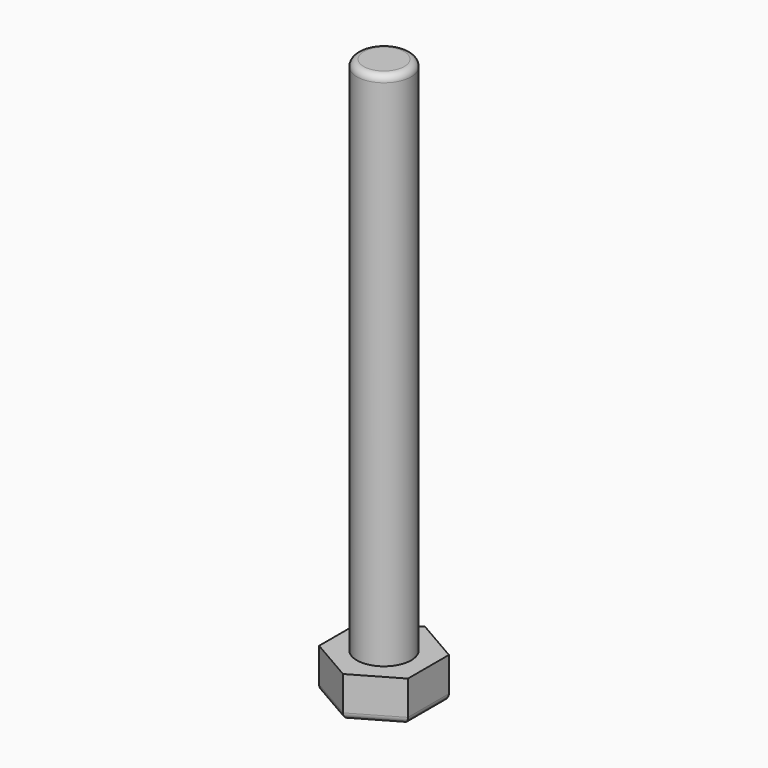
from build123d import *

# Parameters (mm, degrees)
SKETCH001_R      = 3.96875
EXTRUDE001_DEPTH = 76.2
EXTRUDE_DEPTH    = 6
FILLET_R         = 1
FILLET001_R      = 1


with BuildPart() as extrude001:
    # Sketch001 (on Face8 of Extrude) → Extrude001 (new body)
    with BuildSketch(Plane.XY.offset(6)):
        Circle(SKETCH001_R)
    extrude(amount=EXTRUDE001_DEPTH)


with BuildPart() as fillet001:
    # Sketch → Extrude (new body)
    with BuildSketch(Plane.XY):
        Polygon((0, -7.505553), (6.5, -3.752777), (6.5, 3.752777), (0, 7.505553), (-6.5, 3.752777), (-6.5, -3.752777), align=None)
    extrude(amount=EXTRUDE_DEPTH)

    # Fusion: union Extrude001
    add(extrude001.part)

    # Fillet
    fillet_edges = [fillet001.edges().sort_by_distance(p)[0] for p in [
        (-3.96875, 0, 82.2),
    ]]
    fillet(fillet_edges, radius=FILLET_R)

    # Fillet001
    fillet001_edges = [fillet001.edges().sort_by_distance(p)[0] for p in [
        (3.25, -5.629165, 0),
        (-3.25, -5.629165, 0),
        (6.5, 0, 0),
        (-6.5, 0, 0),
        (3.25, 5.629165, 0),
        (-3.25, 5.629165, 0),
    ]]
    fillet(fillet001_edges, radius=FILLET001_R)


solid = fillet001.part
